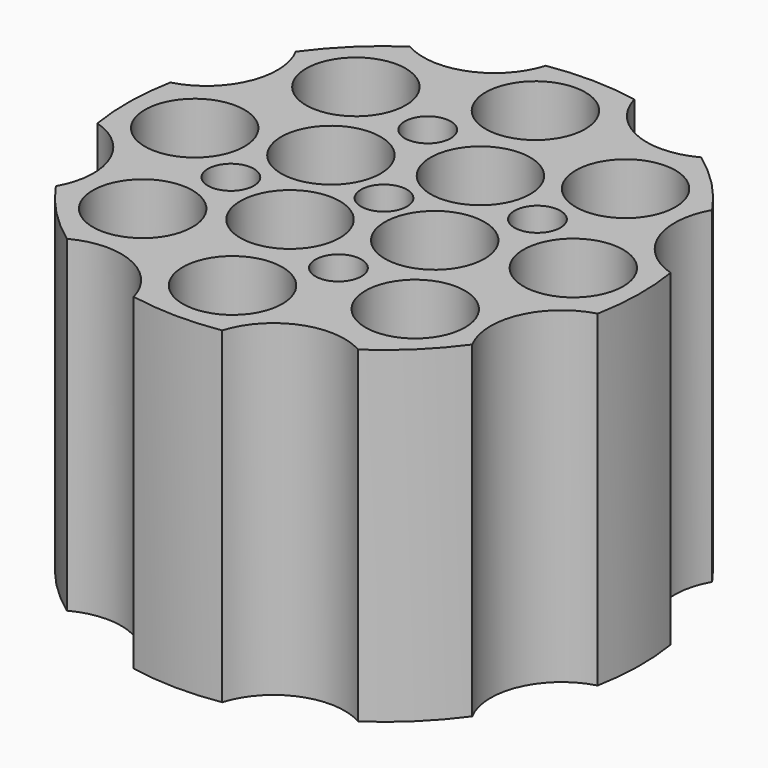
from build123d import *

# Parameters (mm, degrees)
F0_R     = 3.802053
F0_R_2   = 1.754476
F1_DEPTH = 25


with BuildPart() as f1:
    # F0 (on Top) → F1 (new body)
    with BuildSketch(Plane.XY):
        with BuildLine():
            ThreePointArc((11.478853, 15.920699), (6.779172, 15.725759), (3.694227, 19.27655))
            ThreePointArc((3.694227, 19.27655), (0.280977, 19.625334), (-3.140859, 19.374409))
            ThreePointArc((-3.140859, 19.374409), (-6.326193, 15.913389), (-11.018367, 16.242792))
            ThreePointArc((-11.018367, 16.242792), (-13.678526, 14.075888), (-15.920699, 11.478853))
            ThreePointArc((-15.920699, 11.478853), (-15.725759, 6.779172), (-19.27655, 3.694227))
            ThreePointArc((-19.27655, 3.694227), (-19.625334, 0.280977), (-19.374409, -3.140859))
            ThreePointArc((-19.374409, -3.140859), (-15.913389, -6.326193), (-16.242792, -11.018367))
            ThreePointArc((-16.242792, -11.018367), (-14.075888, -13.678526), (-11.478853, -15.920699))
            ThreePointArc((-11.478853, -15.920699), (-6.779172, -15.725759), (-3.694227, -19.27655))
            ThreePointArc((-3.694227, -19.27655), (-0.280977, -19.625334), (3.140859, -19.374409))
            ThreePointArc((3.140859, -19.374409), (6.326193, -15.913389), (11.018367, -16.242792))
            ThreePointArc((11.018367, -16.242792), (13.678526, -14.075888), (15.920699, -11.478853))
            ThreePointArc((15.920699, -11.478853), (15.725759, -6.779172), (19.27655, -3.694227))
            ThreePointArc((19.27655, -3.694227), (19.625334, -0.280977), (19.374409, 3.140859))
            ThreePointArc((19.374409, 3.140859), (15.913389, 6.326193), (16.242792, 11.018367))
            ThreePointArc((16.242792, 11.018367), (14.075888, 13.678526), (11.478853, 15.920699))
        make_face()
        with Locations((-10.378869, -10.063209)):
            Circle(F0_R, mode=Mode.SUBTRACT)
        with Locations((-2.645763, -5.660985)):
            Circle(F0_R, mode=Mode.SUBTRACT)
        with Locations((-8.806129, -3.608116)):
            Circle(F0_R_2, mode=Mode.SUBTRACT)
        with Locations((0, -14.456455)):
            Circle(F0_R, mode=Mode.SUBTRACT)
        with Locations((10.409998, -10.031004)):
            Circle(F0_R, mode=Mode.SUBTRACT)
        with Locations((3.514602, -8.74215)):
            Circle(F0_R_2, mode=Mode.SUBTRACT)
        with Locations((5.773404, -2.375457)):
            Circle(F0_R, mode=Mode.SUBTRACT)
        with Locations((-14.456455, 0)):
            Circle(F0_R, mode=Mode.SUBTRACT)
        with Locations((-5.931292, 2.34749)):
            Circle(F0_R, mode=Mode.SUBTRACT)
        with Locations((-3.467145, 8.508203)):
            Circle(F0_R_2, mode=Mode.SUBTRACT)
        with Locations((-10.278539, 10.165664)):
            Circle(F0_R, mode=Mode.SUBTRACT)
        Circle(F0_R_2, mode=Mode.SUBTRACT)
        with Locations((8.853586, 3.579531)):
            Circle(F0_R_2, mode=Mode.SUBTRACT)
        with Locations((2.693222, 5.838363)):
            Circle(F0_R, mode=Mode.SUBTRACT)
        with Locations((14.456455, 0)):
            Circle(F0_R, mode=Mode.SUBTRACT)
        with Locations((0, 14.456455)):
            Circle(F0_R, mode=Mode.SUBTRACT)
        with Locations((10.49385, 9.943249)):
            Circle(F0_R, mode=Mode.SUBTRACT)
    extrude(amount=F1_DEPTH)


solid = f1.part
